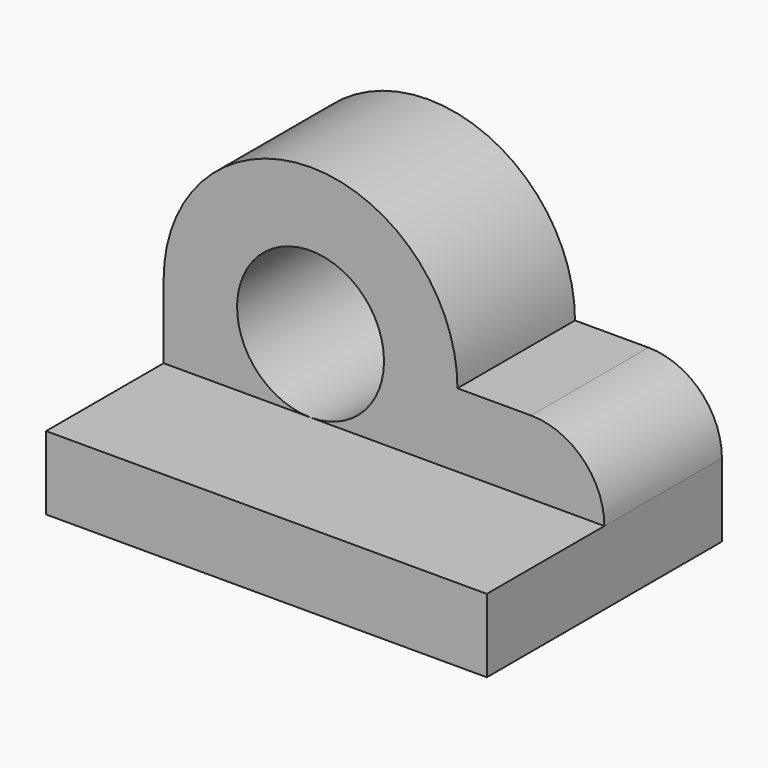
from build123d import *

# Parameters (mm, degrees)
F0_W     = 60
F0_H     = 40
F1_DEPTH = 10
F3_DEPTH = 20
F4_R     = 10
F5_DEPTH = 25


with BuildPart() as f1:
    # F0 (on Top) → F1 (new body)
    with BuildSketch(Plane.XY):
        with Locations((30, 20)):
            Rectangle(F0_W, F0_H)
    extrude(amount=F1_DEPTH)

    # F2 (on face) → F3 (join)
    with BuildSketch(Plane(origin=(0, 40, 0), x_dir=(-1, 0, 0), z_dir=(0, 1, 0))):
        with BuildLine():
            Line((0, 10), (0, 20))
            ThreePointArc((0, 20), (-20, 40), (-40, 20))
            Line((-40, 20), (-50, 20))
            ThreePointArc((-50, 20), (-57.071068, 17.071068), (-60, 10))
            Line((-60, 10), (0, 10))
        make_face()
    extrude(amount=-F3_DEPTH)

    # F4 (on face) → F5 (cut)
    with BuildSketch(Plane.XZ.offset(-20)):
        with Locations((20, 20)):
            Circle(F4_R)
    extrude(amount=-F5_DEPTH, mode=Mode.SUBTRACT)


solid = f1.part
